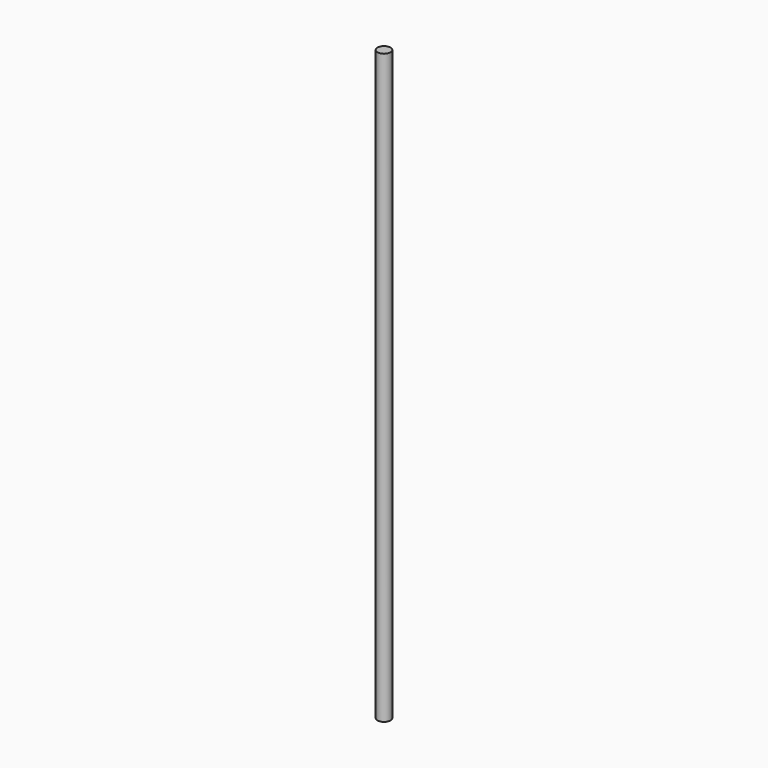
from build123d import *

# Parameters (mm, degrees)
F0_R      = 10
F1_DEPTH  = 880
F2_R      = 1.700977
F2_R_2    = 10
F1_FACE_R = 10
F3_DEPTH  = 25


with BuildPart() as f1:
    # F0 (on Top) → F1 (new body)
    with BuildSketch(Plane.XY):
        Circle(F0_R)
    extrude(amount=F1_DEPTH)

    # F2 (on face) + F1_face (on face) → F3 (join)
    with BuildSketch(Plane.XY.offset(880)):
        Circle(F2_R)
        Circle(F2_R_2)
        Circle(F2_R, mode=Mode.SUBTRACT)
    with BuildSketch(Plane.XY.offset(880)):
        Circle(F1_FACE_R)
    extrude(amount=F3_DEPTH)


solid = f1.part
